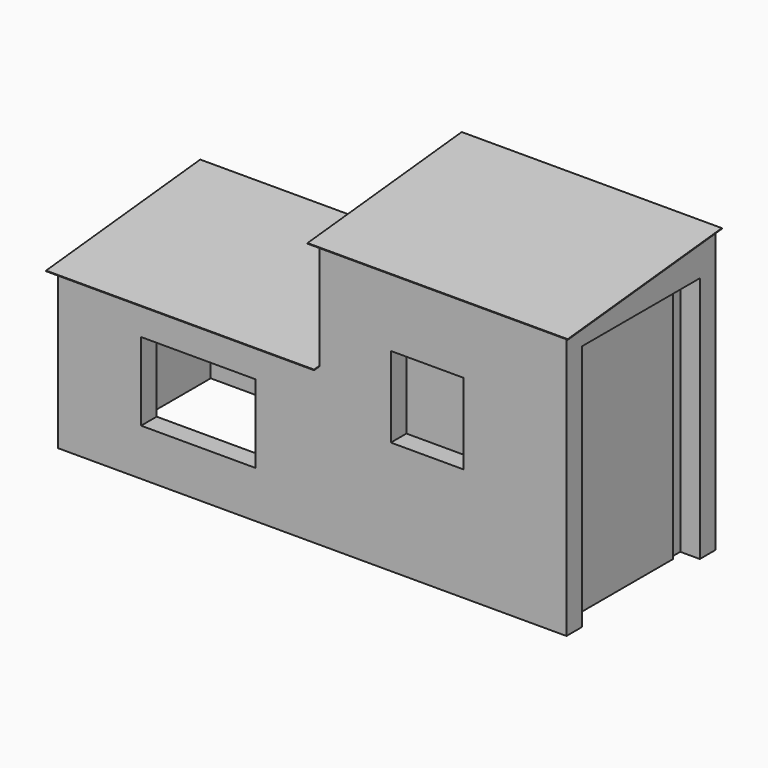
from build123d import *

# Parameters (mm, degrees)
F0_W      = 1900
F0_H      = 1431.4363771724
F1_DEPTH  = 2190
F0_W_2    = 2010
F2_DEPTH  = 1350
F3_W      = 1131.4363771724
F3_H      = 1900
F4_DEPTH  = 150
F6_DEPTH  = 1900
F8_DEPTH  = 2010
F9_W      = 3510
F9_H      = 1131.4363771724
F10_DEPTH = 1200
F11_W     = 1484.2306598212
F11_H     = 1131.4363771724
F12_DEPTH = 800
F13_W     = 880
F13_H     = 600
F13_W_2   = 560
F13_H_2   = 620
F14_DEPTH = 150
F15_W     = 340
F15_H     = 340
F16_DEPTH = 150
F17_W     = 928.7782609463
F17_H     = 1805.9933185577
F18_DEPTH = 25
F19_W     = 1900
F19_H     = 1438.6924120027
F20_DEPTH = 5
F21_W     = 2010
F21_H     = 1438.6927541941
F22_DEPTH = 5


with BuildPart() as f1:
    # F0 (on Top) → F1 (new body)
    with BuildSketch(Plane.XY):
        with Locations((1352.2967203642, -12.5920064747)):
            Rectangle(F0_W, F0_H)
    extrude(amount=F1_DEPTH)

    # F0 (on Top) → F2 (join)
    with BuildSketch(Plane.XY):
        with Locations((-602.7032796358, -12.5920064747)):
            Rectangle(F0_W_2, F0_H)
    extrude(amount=F2_DEPTH)

    # F3 (on face) → F4 (cut)
    with BuildSketch(Plane.YZ.offset(2302.2967203642)):
        with Locations((-12.5920064747, 950)):
            Rectangle(F3_W, F3_H)
    extrude(amount=-F4_DEPTH, mode=Mode.SUBTRACT)

    # F5 (on face) → F6 (cut)
    with BuildSketch(Plane.YZ.offset(2302.2967203642)):
        Polygon((-728.3101950609, 2045.6886890728), (703.1261821115, 2190), (-728.3101950609, 2190), align=None)
    extrude(amount=-F6_DEPTH, mode=Mode.SUBTRACT)

    # F7 (on face) → F8 (cut)
    with BuildSketch(Plane(origin=(-1607.7032796358, 0, 0), x_dir=(0, -1, 0), z_dir=(-1, 0, 0))):
        Polygon((728.3101950609, 1350), (-703.1261821115, 1350), (728.3101950609, 1205.6852776806), align=None)
    extrude(amount=-F8_DEPTH, mode=Mode.SUBTRACT)

    # F9 (on face) → F10 (cut)
    with BuildSketch(Plane(origin=(0, 0, 0), x_dir=(1, 0, 0), z_dir=(0, 0, -1))):
        with Locations((297.2967203642, 12.5920064747)):
            Rectangle(F9_W, F9_H)
    extrude(amount=-F10_DEPTH, mode=Mode.SUBTRACT)

    # F11 (on face) → F12 (cut)
    with BuildSketch(Plane(origin=(0, 0, 1200), x_dir=(1, 0, 0), z_dir=(0, 0, -1))):
        with Locations((1310.1813904536, 12.5920064747)):
            Rectangle(F11_W, F11_H)
    extrude(amount=-F12_DEPTH, mode=Mode.SUBTRACT)

    # F13 (on face) → F14 (cut)
    with BuildSketch(Plane.XZ.offset(728.3101950609)):
        with Locations((-527.7032796358, 660)):
            Rectangle(F13_W, F13_H)
        with Locations((1232.2967203642, 1180)):
            Rectangle(F13_W_2, F13_H_2)
    extrude(amount=-F14_DEPTH, mode=Mode.SUBTRACT)

    # F15 (on face) → F16 (cut)
    with BuildSketch(Plane(origin=(-1607.7032796358, 0, 0), x_dir=(0, -1, 0), z_dir=(-1, 0, 0))):
        with Locations((138.3101950609, 670)):
            Rectangle(F15_W, F15_H)
    extrude(amount=-F16_DEPTH, mode=Mode.SUBTRACT)


with BuildPart() as f18:
    # F17 (on face) → F18 (new body)
    with BuildSketch(Plane.YZ.offset(2152.2967203642)):
        with Locations((-12.9206627607, 902.9966592789)):
            Rectangle(F17_W, F17_H)
    extrude(amount=F18_DEPTH)


with BuildPart() as f20:
    # F19 (on face) → F20 (new body)
    with BuildSketch(Plane(origin=(0, -211.4904682167, 2097.792249862), x_dir=(1, 0, 0), z_dir=(0, -0.1003072719, 0.9949565072))):
        Polygon((2352.2967203642, -569.439516308), (2352.2967203642, 919.2528956946), (2302.2967203642, 919.2528956946), (2302.2967203642, -519.439516308), (402.2967203642, -519.439516308), (402.2967203642, 919.2528956946), (352.2967203642, 919.2528956946), (352.2967203642, -569.439516308), align=None)
        with Locations((1352.2967203642, 199.9066896933)):
            Rectangle(F19_W, F19_H)
    extrude(amount=F20_DEPTH)


with BuildPart() as f22:
    # F21 (on face) → F22 (new body)
    with BuildSketch(Plane(origin=(0, -127.6601047371, 1266.2416896725), x_dir=(1, 0, 0), z_dir=(0, -0.1003096192, 0.9949562705))):
        with Locations((-602.7032796358, 115.6514126991)):
            Rectangle(F21_W, F21_H)
        Polygon((-1607.7032796358, 834.9977897962), (-1657.7032796358, 834.9977897962), (-1657.7032796358, -653.6949643979), (402.2967203642, -653.6949643979), (402.2967203642, -603.6949643979), (-1607.7032796358, -603.6949643979), align=None)
    extrude(amount=F22_DEPTH)


solid = Compound([f1.part, f18.part, f20.part, f22.part])
